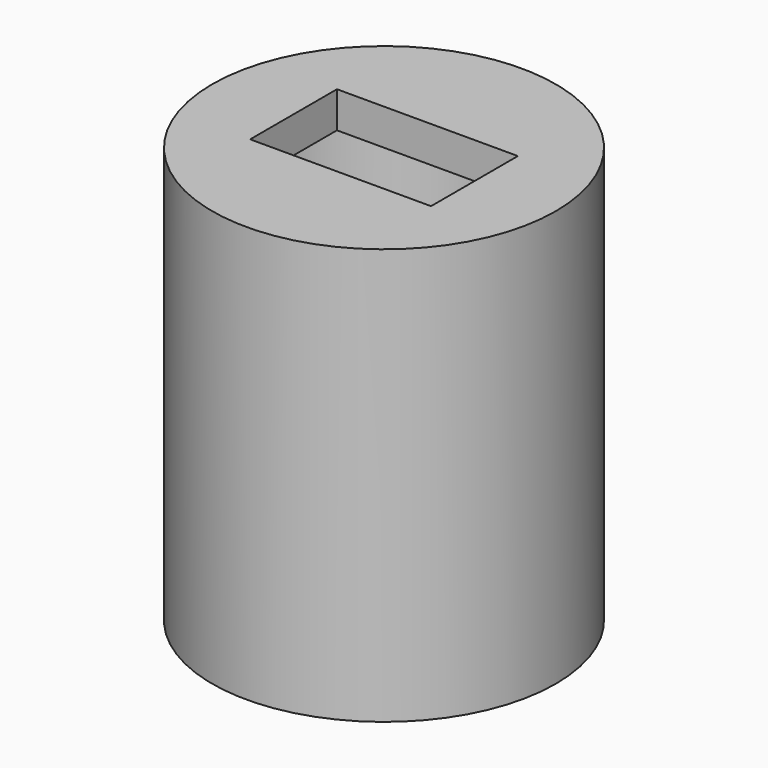
from build123d import *

# Parameters (mm, degrees)
SKETCH_R     = 9.5
SKETCH_R_2   = 7.5
PAD_DEPTH    = 21
SKETCH001_R  = 9.5
PAD001_DEPTH = 2
SKETCH002_W  = 10
SKETCH002_H  = 6
POCKET_DEPTH = 5


with BuildPart() as part:
    # Sketch → Pad (new body)
    with BuildSketch(Plane.XY):
        Circle(SKETCH_R)
        Circle(SKETCH_R_2, mode=Mode.SUBTRACT)
    extrude(amount=PAD_DEPTH)

    # Sketch001 → Pad001 (new body)
    with BuildSketch(Plane.XY.offset(21)):
        Circle(SKETCH001_R)
    extrude(amount=PAD001_DEPTH)

    # Sketch002 → Pocket (cut)
    with BuildSketch(Plane.XY.offset(23)):
        Rectangle(SKETCH002_W, SKETCH002_H)
    extrude(amount=-POCKET_DEPTH, mode=Mode.SUBTRACT)


solid = part.part
